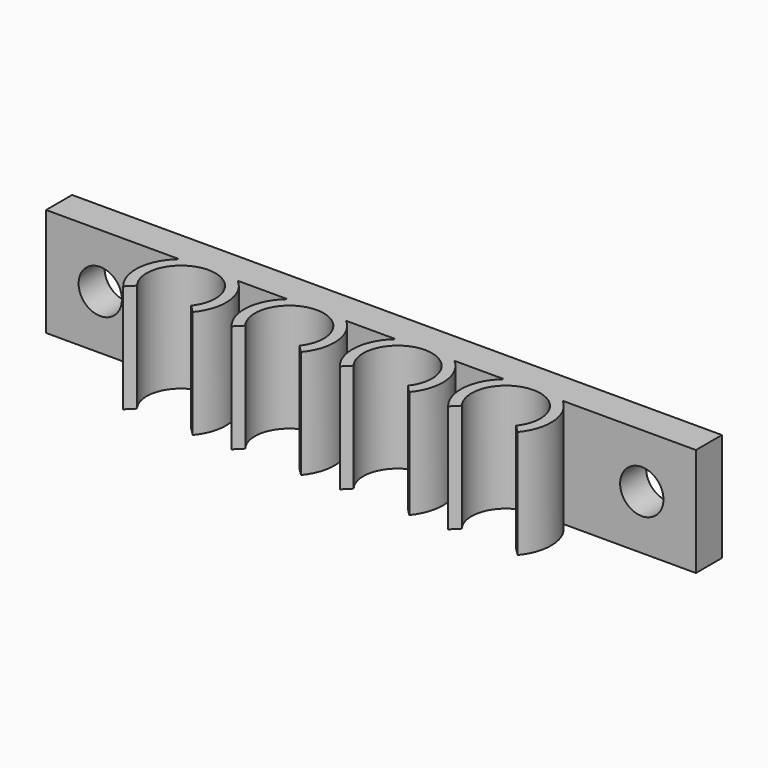
from build123d import *

# Parameters (mm, degrees)
PAD_DEPTH           = 10
LINEARPATTERN_COUNT = 4
LINEARPATTERN_PITCH = 10
SKETCH001_W         = 60
SKETCH001_H         = 3
PAD001_DEPTH        = 10
SKETCH002_R         = 2
POCKET_DEPTH        = 3


with BuildPart() as part:
    # Sketch → Pad (new body)
    with BuildSketch(Plane.XY):
        with BuildLine():
            Line((-5, 3), (5, 3))
            Line((5, 3), (5, 0))
            Line((5, 0), (2.702486, 0))
            ThreePointArc((3.207107, -5.839305), (4.153937, -2.816025), (2.702486, 0))
            Line((3.207107, -5.839305), (2.5, -5.132198))
            ThreePointArc((2.5, -5.132198), (0, 0), (-2.5, -5.132198))
            Line((-3.207107, -5.839305), (-2.5, -5.132198))
            ThreePointArc((-2.702486, 0), (-4.153937, -2.816025), (-3.207107, -5.839305))
            Line((-5, 0), (-2.702486, 0))
            Line((-5, 3), (-5, 0))
        make_face()
    pad = extrude(amount=PAD_DEPTH)

    # LinearPattern: Pad ×4
    with Locations(*[(i * LINEARPATTERN_PITCH, 0, 0) for i in range(1, LINEARPATTERN_COUNT)]):
        add(pad)

    # Sketch001 → Pad001 (join)
    with BuildSketch(Plane.XY):
        with Locations((15, 1.5)):
            Rectangle(SKETCH001_W, SKETCH001_H)
    extrude(amount=PAD001_DEPTH)

    # Sketch002 → Pocket (cut)
    with BuildSketch(Plane.XZ):
        with Locations((-10, 5)):
            Circle(SKETCH002_R)
        with Locations((40, 5)):
            Circle(SKETCH002_R)
    extrude(amount=-POCKET_DEPTH, mode=Mode.SUBTRACT)


solid = part.part
